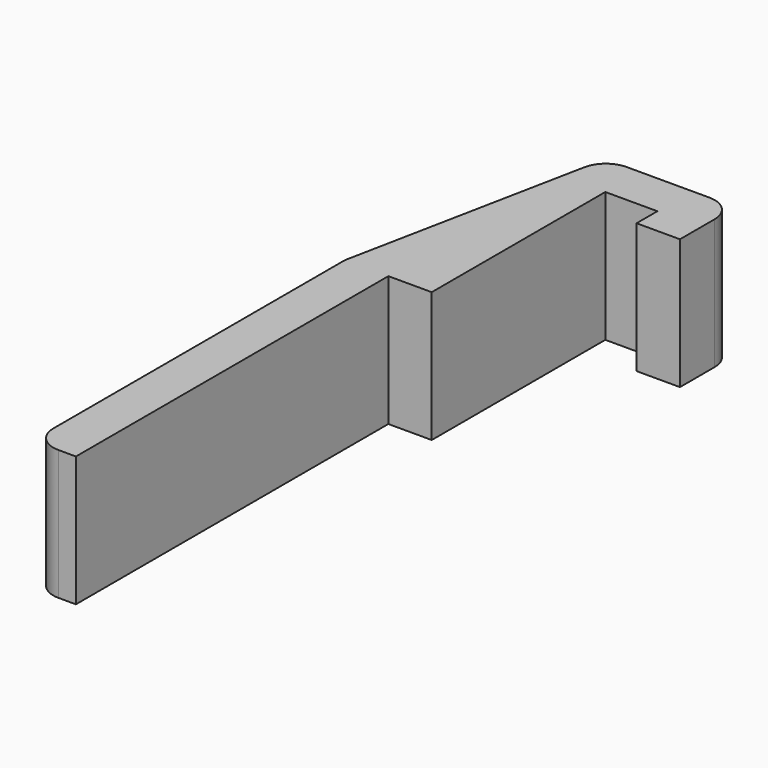
from build123d import *

# Parameters (mm, degrees)
F1_DEPTH = 15


with BuildPart() as f1:
    # F0 (on Top) → F1 (new body)
    with BuildSketch(Plane.XY):
        with BuildLine():
            ThreePointArc((-5, -42), (-4.12132, -44.12132), (-2, -45))
            Line((-2, -45), (0, -45))
            Line((0, -45), (0, 0))
            Line((0, 0), (5, 0))
            Line((5, 0), (5, 25))
            Line((5, 25), (11, 25))
            Line((11, 25), (11, 22))
            Line((11, 22), (16, 22))
            Line((16, 22), (16, 27))
            ThreePointArc((16, 27), (15.12132, 29.12132), (13, 30))
            Line((13, 30), (3.459412, 30))
            ThreePointArc((3.459412, 30), (1.557445, 29.320026), (0.51767, 27.588348))
            Line((0.51767, 27.588348), (-4.941742, 0.29129))
            ThreePointArc((-4.941742, 0.29129), (-4.9854, -0.001446), (-5, -0.297059))
            Line((-5, -0.297059), (-5, -42))
        make_face()
    extrude(amount=F1_DEPTH)


solid = f1.part
